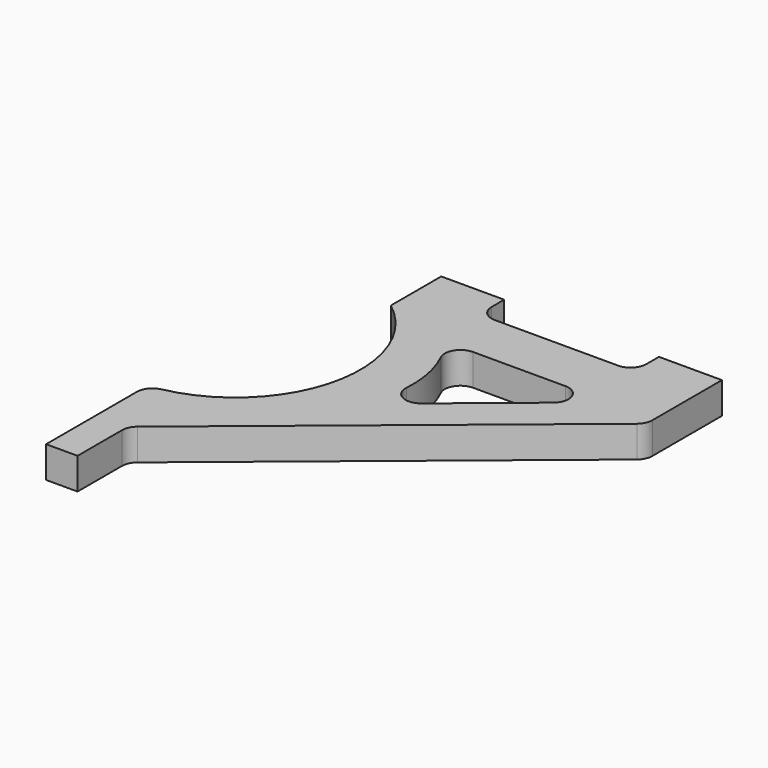
from build123d import *

# Parameters (mm, degrees)
F1_DEPTH = 6.35


with BuildPart() as f1:
    # F0 (on Top) → F1 (new body)
    with BuildSketch(Plane.XY):
        with BuildLine():
            Line((-13.475527, 26.65859), (-26.175527, 26.65859))
            Line((-26.175527, 26.65859), (-26.175527, 13.95859))
            ThreePointArc((-26.175527, 13.95859), (-16.870071, -11.805035), (-36.482046, -30.929006))
            ThreePointArc((-36.482046, -30.929006), (-38.308198, -32.031301), (-39.024714, -34.040402))
            Line((-39.024714, -34.040402), (-39.024714, -44.193178))
            Line((-39.024714, -44.193178), (-39.024714, -56.90741))
            Line((-39.024714, -56.90741), (-32.674714, -56.90741))
            Line((-32.674714, -56.90741), (-32.674714, -45.69473))
            ThreePointArc((-32.674714, -45.69473), (-32.369919, -44.337325), (-31.514054, -43.240538))
            Line((-31.514054, -43.240538), (29.277846, 6.655949))
            ThreePointArc((29.277846, 6.655949), (30.133711, 7.752736), (30.438506, 9.110141))
            Line((30.438506, 9.110141), (30.438506, 26.65859))
            Line((30.438506, 26.65859), (17.738506, 26.65859))
            Line((17.738506, 26.65859), (17.738506, 23.48359))
            ThreePointArc((17.738506, 23.48359), (16.80857, 21.238526), (14.563506, 20.30859))
            Line((14.563506, 20.30859), (-10.300527, 20.30859))
            ThreePointArc((-10.300527, 20.30859), (-12.545591, 21.238526), (-13.475527, 23.48359))
            Line((-13.475527, 23.48359), (-13.475527, 26.65859))
        make_face()
        with BuildLine():
            ThreePointArc((-1.531554, -9.106644), (-4.993641, -9.478165), (-6.714508, -6.451172))
            ThreePointArc((-6.714508, -6.451172), (-7.107301, -0.531525), (-9.005287, 5.089344))
            ThreePointArc((-9.005287, 5.089344), (-8.847646, 8.166009), (-6.153785, 9.66061))
            Line((-6.153785, 9.66061), (12.460999, 9.66061))
            ThreePointArc((12.460999, 9.66061), (15.450371, 7.555321), (14.475339, 4.031418))
            Line((14.475339, 4.031418), (-1.531554, -9.106644))
        make_face(mode=Mode.SUBTRACT)
    extrude(amount=F1_DEPTH)


solid = f1.part
